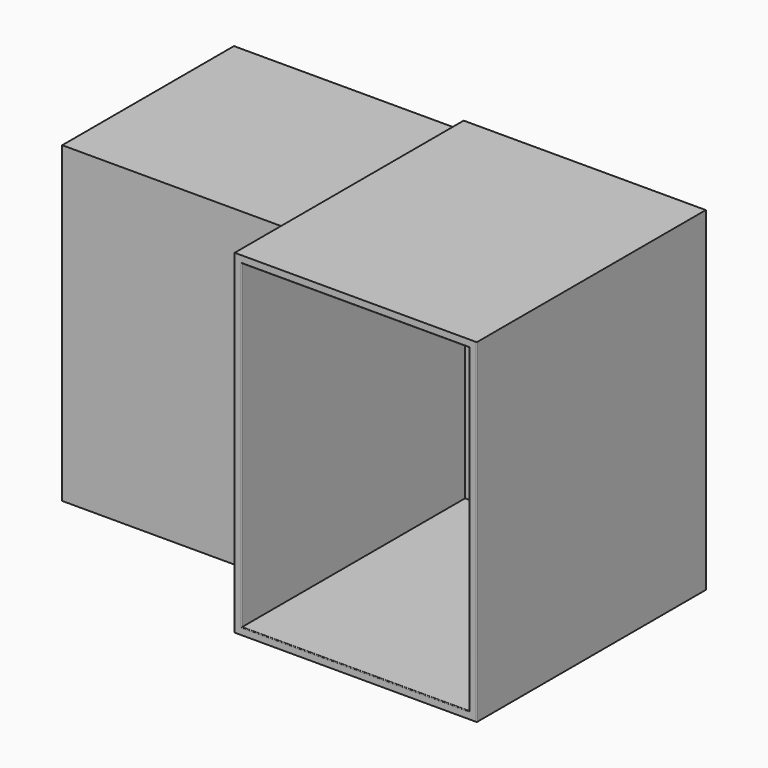
from build123d import *

# Parameters (mm, degrees)
F0_W     = 85.953310132
F0_H     = 118.7221929431
F1_DEPTH = 101.6
F3_T     = -2.54
F4_R     = 0.254
F2_W     = 81.6747397184
F2_H     = 111.1846715212
F5_DEPTH = 76.2


with BuildPart() as f1:
    # F0 (on Front) → F1 (new body)
    with BuildSketch(Plane.XZ):
        with Locations((5.494184792, 0.4023127258)):
            Rectangle(F0_W, F0_H)
    extrude(amount=F1_DEPTH)

    # F3
    f3_openings = [f1.faces().sort_by_distance(p)[0] for p in [
        (5.494185, -101.6, 0.402313),
    ]]
    offset(amount=F3_T, openings=f3_openings)

    # F4
    f4_edges = [f1.edges().sort_by_distance(p)[0] for p in [
        (48.47084, -101.6, 0.402313),
        (5.494185, -101.6, 57.223409),
        (-34.94247, -101.6, 0.402313),
        (5.494185, -101.6, -56.418784),
    ]]
    fillet(f4_edges, radius=F4_R)

    # F2 (on Front) → F5 (join)
    with BuildSketch(Plane.XZ):
        with Locations((-78.1854763627, 0.9429827332)):
            Rectangle(F2_W, F2_H)
    extrude(amount=F5_DEPTH)


solid = f1.part
